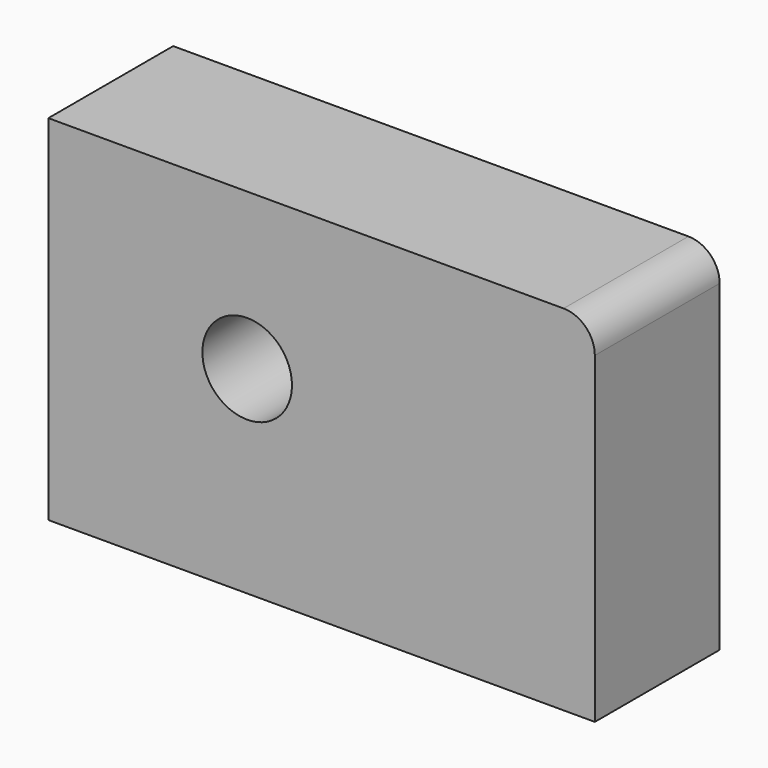
from build123d import *

# Parameters (mm, degrees)
F0_W     = 88.971116
F0_H     = 57.607204
F1_DEPTH = 12.7
F2_R     = 7.295554
F3_DEPTH = 25.4
F4_R     = 5.08


with BuildPart() as f1:
    # F0 (on Front) → F1 (new body, symmetric)
    with BuildSketch(Plane.XZ):
        Rectangle(F0_W, F0_H)
    extrude(amount=F1_DEPTH, both=True)

    # F2 (on face) → F3 (cut, through all)
    with BuildSketch(Plane.XZ.offset(12.7)):
        with Locations((-12.114964, 3.403602)):
            Circle(F2_R)
    extrude(amount=-F3_DEPTH, mode=Mode.SUBTRACT)

    # F4
    f4_edges = [f1.edges().sort_by_distance(p)[0] for p in [
        (44.485558, 0, 28.803602),
    ]]
    fillet(f4_edges, radius=F4_R)


solid = f1.part
